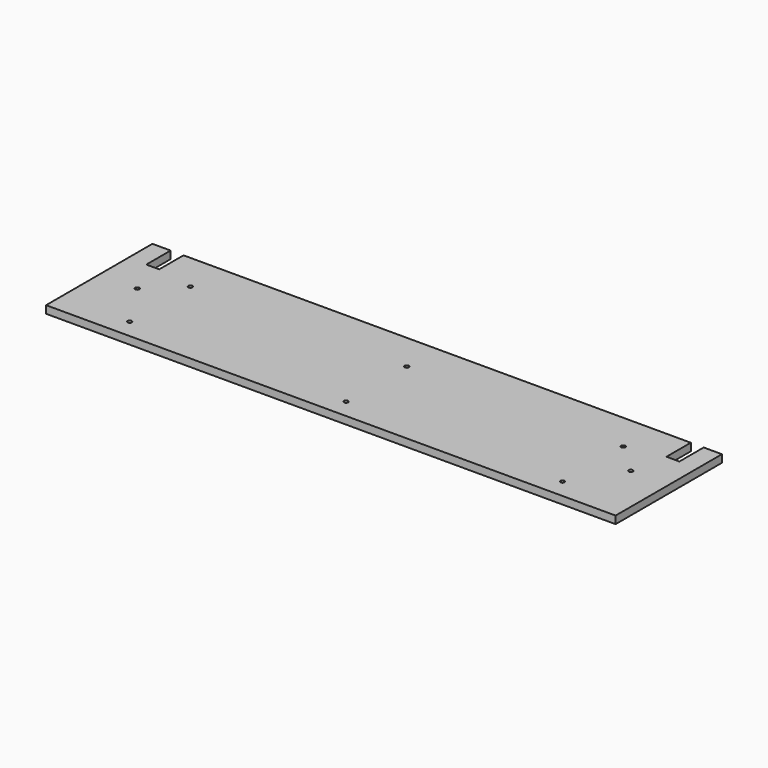
from build123d import *

# Parameters (mm, degrees)
F0_W     = 1500
F0_H     = 350
F1_DEPTH = 10
F2_W     = 34
F2_H     = 80
F3_DEPTH = 20.001
F4_R     = 3.3
F5_DEPTH = 20.001
F6_R     = 5.5
F7_DEPTH = 8


with BuildPart() as f1:
    # F0 (on Top) → F1 (new body, symmetric)
    with BuildSketch(Plane.XY):
        Rectangle(F0_W, F0_H)
    extrude(amount=F1_DEPTH, both=True)

    # F2 (on face) → F3 (cut, through all)
    with BuildSketch(Plane.XY.offset(10)):
        with Locations((685, 135)):
            Rectangle(F2_W, F2_H)
        with Locations((-685, 135)):
            Rectangle(F2_W, F2_H)
    extrude(amount=-F3_DEPTH, mode=Mode.SUBTRACT)

    # F4 (on face) → F5 (cut, through all)
    with BuildSketch(Plane.XY.offset(10)):
        with Locations((-570, 75)):
            Circle(F4_R)
        with Locations((0, 75)):
            Circle(F4_R)
        with Locations((570, 75)):
            Circle(F4_R)
        with Locations((-570, -125)):
            Circle(F4_R)
        with Locations((0, -125)):
            Circle(F4_R)
        with Locations((570, -125)):
            Circle(F4_R)
        with Locations((-650, 0)):
            Circle(F4_R)
        with Locations((650, 0)):
            Circle(F4_R)
    extrude(amount=-F5_DEPTH, mode=Mode.SUBTRACT)

    # F6 (on face) → F7 (cut)
    with BuildSketch(Plane.XY.offset(10)):
        with Locations((-570, 75)):
            Circle(F6_R)
        with Locations((-650, 0)):
            Circle(F6_R)
        with Locations((-570, -125)):
            Circle(F6_R)
        with Locations((0, -125)):
            Circle(F6_R)
        with Locations((570, -125)):
            Circle(F6_R)
        with Locations((650, 0)):
            Circle(F6_R)
        with Locations((570, 75)):
            Circle(F6_R)
        with Locations((0, 75)):
            Circle(F6_R)
    extrude(amount=-F7_DEPTH, mode=Mode.SUBTRACT)


solid = f1.part
